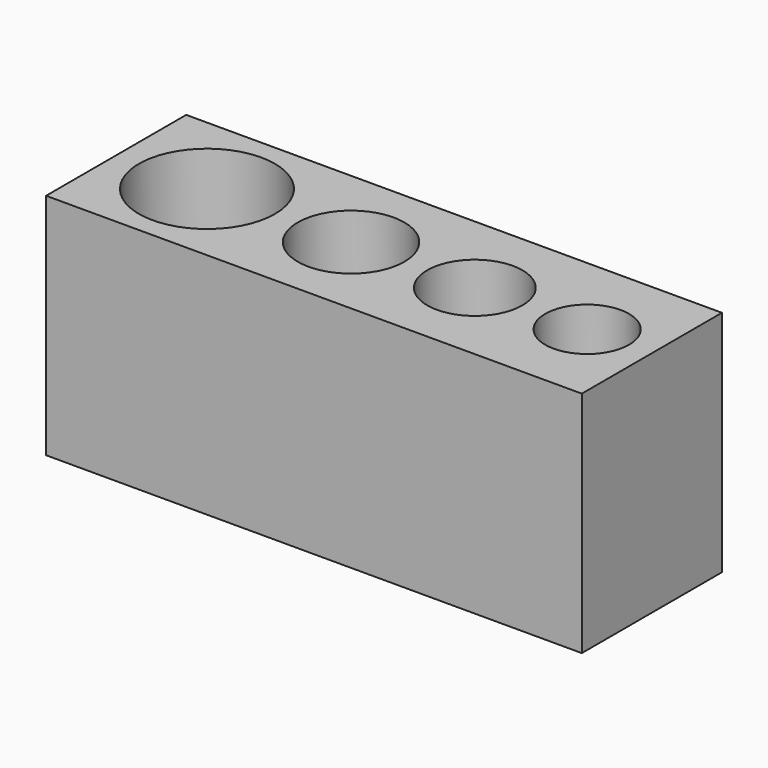
from build123d import *

# Parameters (mm, degrees)
SKETCH006_W      = 9.472441
SKETCH006_H      = 23
EXTRUDE005_DEPTH = 40
SKETCH005_R      = 5.5
EXTRUDE004_DEPTH = 10.25
SKETCH004_R      = 6.25
EXTRUDE003_DEPTH = 11.75
SKETCH003_R      = 7
EXTRUDE002_DEPTH = 13.1
SKETCH002_R      = 8.925
EXTRUDE001_DEPTH = 14.55
FACE_W           = 23
FACE_H           = 79.822441
EXTRUDE_DEPTH    = 30


with BuildPart() as extrude005:
    # Sketch006 (on Face5 of Cut003) → Extrude005 (new body)
    with BuildSketch(Plane.XY.offset(30)):
        with Locations((75.08622, 11.5)):
            Rectangle(SKETCH006_W, SKETCH006_H)
    extrude(amount=-EXTRUDE005_DEPTH)


with BuildPart() as extrude004:
    # Sketch005 (on Face5 of Cut002) → Extrude004 (new body)
    with BuildSketch(Plane.XY.offset(30)):
        with Locations((61.85, 11.5)):
            Circle(SKETCH005_R)
    extrude(amount=-EXTRUDE004_DEPTH)


with BuildPart() as extrude003:
    # Sketch004 (on Face5 of Cut001) → Extrude003 (new body)
    with BuildSketch(Plane.XY.offset(30)):
        with Locations((47.1, 11.5)):
            Circle(SKETCH004_R)
    extrude(amount=-EXTRUDE003_DEPTH)


with BuildPart() as extrude002:
    # Sketch003 (on Face5 of Cut) → Extrude002 (new body)
    with BuildSketch(Plane.XY.offset(30)):
        with Locations((30.85, 11.5)):
            Circle(SKETCH003_R)
    extrude(amount=-EXTRUDE002_DEPTH)


with BuildPart() as extrude001:
    # Sketch002 (on Face6 of Extrude) → Extrude001 (new body)
    with BuildSketch(Plane.XY.offset(30)):
        with Locations((11.925, 11.5)):
            Circle(SKETCH002_R)
    extrude(amount=-EXTRUDE001_DEPTH)


with BuildPart() as cut004:
    # Face → Extrude (new body)
    with BuildSketch(Plane(origin=(39.91122, 11.5, 0), x_dir=(0, 1, 0), z_dir=(0, 0, 1))):
        with Locations((0, 0)):
            Rectangle(FACE_W, FACE_H)
    extrude(amount=EXTRUDE_DEPTH)

    # Cut: cut Extrude001
    add(extrude001.part, mode=Mode.SUBTRACT)

    # Cut001: cut Extrude002
    add(extrude002.part, mode=Mode.SUBTRACT)

    # Cut002: cut Extrude003
    add(extrude003.part, mode=Mode.SUBTRACT)

    # Cut003: cut Extrude004
    add(extrude004.part, mode=Mode.SUBTRACT)

    # Cut004: cut Extrude005
    add(extrude005.part, mode=Mode.SUBTRACT)


solid = cut004.part
